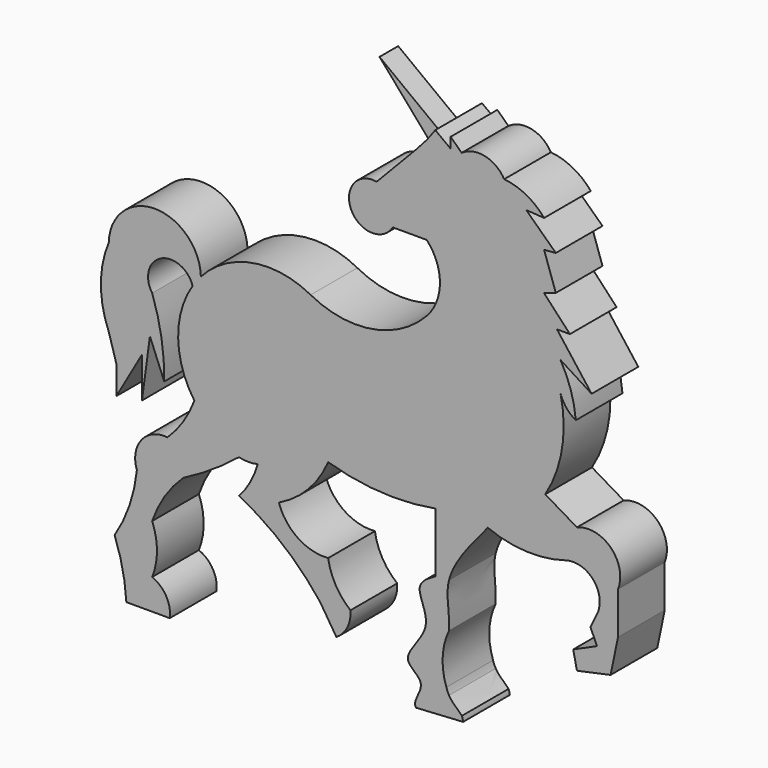
from build123d import *

# Parameters (mm, degrees)
F1_DEPTH = 25.4
F3_DEPTH = 25.4
F5_DEPTH = 7.62
F7_DEPTH = 7.62


with BuildPart() as f1:
    # F0 (on Front) → F1 (new body)
    with BuildSketch(Plane.XZ):
        with BuildLine():
            ThreePointArc((55.4591871163, 137.7187907169), (57.1778936646, 140.1694279188), (59.0786326768, 142.4817354462))
            ThreePointArc((59.0786326768, 142.4817354462), (39.0356978447, 161.9894984881), (18.9927630126, 142.4817354462))
            ThreePointArc((18.9927630126, 142.4817354462), (15.5809128086, 125.4101537656), (18.9927630126, 108.3385720849))
            Line((18.9927630126, 108.3385720849), (22.309999913, 97.1100777388))
            Line((22.309999913, 97.1100777388), (22.309999913, 84.7518071532))
            Line((22.309999913, 84.7518071532), (33.4528027138, 104.264870286))
            Line((33.4528027138, 104.264870286), (33.4528027138, 86.6916491587))
            Line((33.4528027138, 86.6916491587), (36.9130928491, 112.466349486))
            Line((36.9130928491, 112.466349486), (43.123934418, 97.1100777388))
            ThreePointArc((43.123934418, 97.1100777388), (41.9493193566, 113.4261599819), (37.8830172122, 129.2710155249))
            ThreePointArc((37.8830172122, 129.2710155249), (41.7069327363, 143.8231946906), (55.4591871163, 137.7187907169))
        make_face()
        with BuildLine():
            Line((161.0753406305, 231.77226012), (157.3511064053, 226.7855703831))
            Line((157.3511064053, 226.7855703831), (153.2667279243, 222.1906334162))
            Line((153.2667279243, 222.1906334162), (135.5471188815, 203.6892712114))
            ThreePointArc((135.5471188815, 203.6892712114), (124.4679795229, 189.3777542773), (142.5452232361, 188.4945183992))
            Line((142.5452232361, 188.4945183992), (157.3511064053, 188.4945183992))
            ThreePointArc((157.3511064053, 188.4945183992), (163.0913283676, 173.9439144731), (157.3511064053, 159.3933105469))
            ThreePointArc((157.3511064053, 159.3933105469), (133.5218764448, 146.628732852), (106.8485764131, 151.0221039559))
            ThreePointArc((106.8485764131, 151.0221039559), (81.4826477265, 155.0355463169), (59.0786326768, 142.4817354462))
            ThreePointArc((59.0786326768, 142.4817354462), (57.1778936646, 140.1694279188), (55.4591871163, 137.7187907169))
            ThreePointArc((55.4591871163, 137.7187907169), (49.1972996165, 115.7594263547), (56.2388920861, 94.0375274104))
            ThreePointArc((56.2388920861, 94.0375274104), (51.4005357949, 84.435997918), (44.5201359689, 76.1740878224))
            ThreePointArc((44.5201359689, 76.1740878224), (33.1757105593, 71.4588467738), (31.2459021807, 59.3260265887))
            ThreePointArc((31.2459021807, 59.3260265887), (28.0144474885, 44.7267728634), (21.5454995632, 31.2459263951))
            ThreePointArc((21.5454995632, 31.2459263951), (25.0258299967, 19.4454210796), (26.6509782523, 7.2501958348))
            Line((26.6509782523, 7.2501958348), (45.5412305892, 7.2501958348))
            ThreePointArc((45.5412305892, 7.2501958348), (43.9865002742, 15.1994537749), (37.8830172122, 20.52443102))
            ThreePointArc((37.8830172122, 20.52443102), (39.9724122876, 31.2459263951), (37.8830172122, 41.9674217701))
            ThreePointArc((37.8830172122, 41.9674217701), (43.3657124777, 53.2576823746), (51.4005357949, 62.8998577595))
            ThreePointArc((51.4005357949, 62.8998577595), (63.9434482796, 70.1826306752), (75.6635218859, 78.7268280983))
            ThreePointArc((75.6635218859, 78.7268280983), (79.7479003668, 78.2162845135), (83.8322788477, 78.7268280983))
            ThreePointArc((83.8322788477, 78.7268280983), (80.62219761, 70.8415194676), (75.6635218859, 63.9209523797))
            ThreePointArc((75.6635218859, 63.9209523797), (94.8811032097, 51.3116760169), (110.8912838002, 34.8197567898))
            Line((110.8912838002, 34.8197567898), (118.0389523506, 23.5877130181))
            ThreePointArc((118.0389523506, 23.5877130181), (122.7991958663, 28.8657998516), (124.165520072, 35.8408465981))
            ThreePointArc((124.165520072, 35.8408465981), (117.7349645729, 43.3549786498), (114.4651249051, 52.6889152825))
            ThreePointArc((114.4651249051, 52.6889152825), (101.2536184714, 56.1015596962), (93.0221304297, 66.9842362404))
            ThreePointArc((93.0221304297, 66.9842362404), (105.7958752022, 76.2573128263), (114.4651249051, 89.4483178854))
            ThreePointArc((114.4651249051, 89.4483178854), (137.6729881459, 85.3431639936), (161.1937859731, 86.8362394266))
            Line((161.1937859731, 86.8362394266), (161.1937859731, 60.947837063))
            add(Edge.make_bspline(
                [(161.1937859731, 60.947837063), (157.8993693687, 59.0561358776), (150.6323180509, 54.8832909577), (162.2144334117, 39.9763215602), (143.2040633117, 24.6385665246), (159.3573781955, 18.7003155427), (150.8482458466, 9.9391907933), (152.7499995265, 7.8050355296)],
                knots=[0, 0, 0, 0, 0.0779334272, 0.1719109278, 0.2757758884, 0.3531240541, 0.4319815568, 0.4319815568, 0.4319815568, 0.4319815568], degree=3))
            Line((152.7499995265, 7.8050355296), (173.171891931, 9.0224858617))
            ThreePointArc((173.171891931, 9.0224858617), (172.9779809567, 10.1232568284), (172.664853356, 11.1962196856))
            add(Edge.make_bspline(
                [(172.664853356, 11.1962196856), (171.3313436819, 12.7085104711), (168.5824067748, 14.597468285), (167.0453242097, 17.1912484114)],
                knots=[0.5736467919, 0.5736467919, 0.5736467919, 0.5736467919, 0.6257117477, 0.6257117477, 0.6257117477, 0.6257117477], degree=3))
            add(Edge.make_bspline(
                [(167.0453242097, 17.1912484114), (166.5426299969, 18.0395296218), (166.169553332, 18.9631972351), (165.9011092746, 19.9468993754)],
                knots=[0.6257117477, 0.6257117477, 0.6257117477, 0.6257117477, 0.6427392989, 0.6427392989, 0.6427392989, 0.6427392989], degree=3))
            ThreePointArc((165.9011092746, 19.9468993754), (164.2768081704, 31.0782012829), (167.0453242097, 41.9813914203))
            add(Edge.make_bspline(
                [(167.0453242097, 41.9813914203), (167.3962963394, 49.2992780507), (165.4846355858, 55.0477309675), (167.0453242097, 61.3542387283)],
                knots=[0.7506807864, 0.7506807864, 0.7506807864, 0.7506807864, 0.8611546748, 0.8611546748, 0.8611546748, 0.8611546748], degree=3))
            add(Edge.make_bspline(
                [(167.0453242097, 61.3542387283), (169.0068222846, 69.2803571375), (176.4531944079, 78.0879710988), (183.8995665312, 86.8955850601)],
                knots=[0.8611546748, 0.8611546748, 0.8611546748, 0.8611546748, 1, 1, 1, 1], degree=3))
            ThreePointArc((183.8995665312, 86.8955850601), (200.6813055662, 83.248064902), (217.7208593273, 85.3892738977))
            ThreePointArc((217.7208593273, 85.3892738977), (229.8786920932, 81.8087152157), (231.4277632013, 69.2296183983))
            Line((231.4277632013, 69.2296183983), (228.5562352695, 63.4104087949))
            Line((228.5562352695, 63.4104087949), (231.4277632013, 57.001966241))
            Line((231.4277632013, 57.001966241), (221.0727564471, 52.3620415043))
            Line((221.0727564471, 52.3620415043), (222.7011620998, 44.7454368664))
            Line((222.7011620998, 44.7454368664), (237.3357014598, 47.8742544631))
            Line((237.3357014598, 47.8742544631), (240.5703216791, 63.4104087949))
            Line((240.5703216791, 63.4104087949), (240.5703216791, 81.790111959))
            ThreePointArc((240.5703216791, 81.790111959), (237.5070340931, 96.5959839523), (222.7011620998, 99.6592715383))
            Line((222.7011620998, 99.6592715383), (208.9163959026, 107.8280285001))
            ThreePointArc((208.9163959026, 107.8280285001), (216.2226754166, 127.6019199845), (215.5535072088, 148.6718207598))
            ThreePointArc((215.5535072088, 148.6718207598), (218.0854842896, 143.9483475476), (222.190618515, 140.503063798))
            ThreePointArc((222.190618515, 140.503063798), (220.0514151702, 151.3432226251), (215.5535072088, 161.4354997873))
            Line((215.5535072088, 161.4354997873), (229.0830209851, 152.8838410974))
            Line((229.0830209851, 152.8838410974), (214.0218615532, 172.6675480604))
            Line((214.0218615532, 172.6675480604), (219.6378856897, 172.6675480604))
            Line((219.6378856897, 172.6675480604), (208.4058374166, 184.6981031667))
            Line((208.4058374166, 184.6981031667), (213.5113179684, 186.4523291588))
            Line((213.5113179684, 186.4523291588), (208.4058374166, 201.3112651118))
            Line((208.4058374166, 201.3112651118), (213.5113179684, 201.7687410116))
            Line((213.5113179684, 201.7687410116), (200.6355195315, 214.0218764544))
            Line((200.6355195315, 214.0218764544), (208.4058374166, 213.5113328695))
            ThreePointArc((208.4058374166, 213.5113328695), (200.6355195315, 219.8232430535), (191.0472214222, 222.7011919022))
            ThreePointArc((191.0472214222, 222.7011919022), (182.6973201136, 228.8132361759), (172.5500786904, 226.7855703831))
            Line((172.5500786904, 226.7855703831), (167.7524379956, 231.3804924488))
            Line((167.7524379956, 231.3804924488), (167.7524379956, 226.7855703831))
            Line((167.7524379956, 226.7855703831), (161.0753406305, 231.77226012))
        make_face()
    extrude(amount=F1_DEPTH)

    # F2 (on Front) → F3 (join)
    with BuildSketch(Plane.XZ):
        Polygon((130.7088136673, 246.8455582857), (152.7369320393, 221.4836478233), (157.5240641832, 226.5485674143), align=None)
    extrude(amount=F3_DEPTH)

    # F4 (on face) → F5 (cut)
    with BuildSketch(Plane(origin=(0, 0, 0), x_dir=(-1, 0, 0), z_dir=(0, 1, 0))):
        Polygon((-157.2947343563, 226.7221516738), (-152.6668710263, 221.5643120502), (-130.7088136673, 246.8455582857), align=None)
    extrude(amount=-F5_DEPTH, mode=Mode.SUBTRACT)

    # F6 (on face) → F7 (cut)
    with BuildSketch(Plane.XZ.offset(25.4)):
        Polygon((130.7088136673, 246.8455582857), (152.6668710263, 221.5643120502), (157.2944223706, 226.7223878219), align=None)
    extrude(amount=-F7_DEPTH, mode=Mode.SUBTRACT)


solid = f1.part
